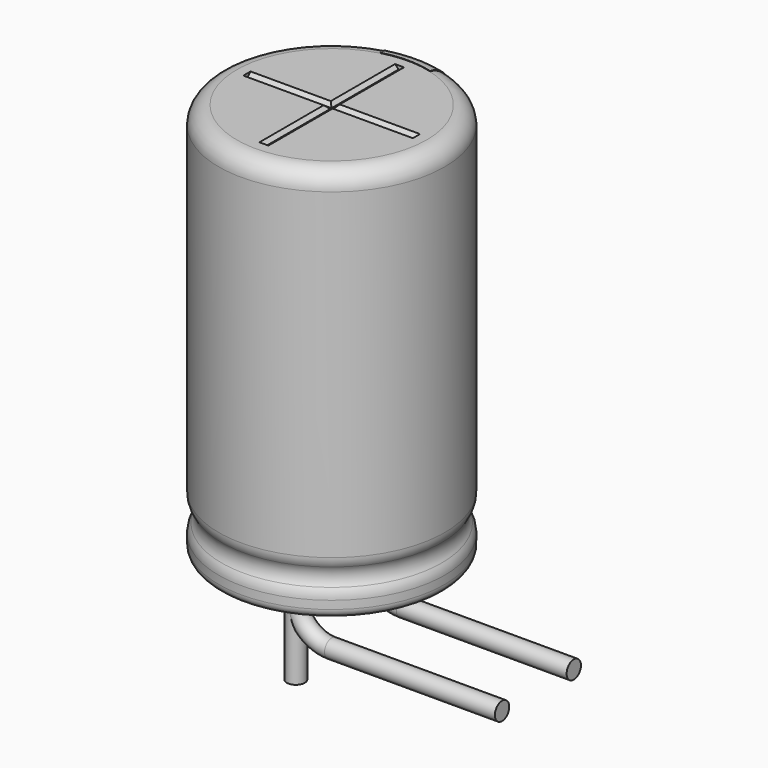
from build123d import *

# Parameters (mm, degrees)
SKETCH010_R         = 0.25
PAD002_DEPTH        = 2.6
REVOLUTION001_ANGLE = -30
SKETCH015_W         = 0.5
SKETCH015_H         = 1
POCKET002_DEPTH     = 3.161
LINEARPATTERN_COUNT = 3
LINEARPATTERN_PITCH = 4
SKETCH012_R         = 2.65
POCKET_DEPTH        = 0.5
SKETCH003_R         = 0.25
SKETCH013_R         = 2.65
PAD_DEPTH           = 0.5
POCKET001_DEPTH     = 2.3625
POLARPATTERN_COUNT  = 3
POLARPATTERN_ANGLE  = 180


with BuildPart() as obj1:
    # Sketch010 → Pad002 (new body)
    with BuildSketch(Plane(origin=(0, 1.25, 0), x_dir=(1, 0, 0), z_dir=(0, 0, 1))):
        Circle(SKETCH010_R)
    extrude(amount=-PAD002_DEPTH)


with BuildPart() as obj1_1:
    # Body007 placement: moved
    add(obj1.part.moved(Location((0, -2.5, 0))))


with BuildPart() as polaritymarking:
    # Sketch005 → Revolution001 (revolve)
    with BuildSketch(Plane(origin=(0, 0, 0), x_dir=(-0.258819, 0.965926, 0), z_dir=(0.965926, 0.258819, 0))):
        with BuildLine():
            Line((2.66, 0.25), (2.66, 11.01))
            ThreePointArc((2.66, 11.01), (3.013553, 10.863553), (3.16, 10.51))
            Line((3.16, 10.51), (3.16, 1.523941))
            ThreePointArc((3.16, 1.523941), (3.139134, 1.381006), (3.078278, 1.25))
            ThreePointArc((3.078278, 1.25), (3.003698, 1), (3.078278, 0.75))
            ThreePointArc((3.078278, 0.75), (3.139134, 0.618994), (3.16, 0.476059))
            Line((3.16, 0.476059), (3.16, 0.25))
            ThreePointArc((3.16, 0.25), (2.91, 0), (2.66, 0.25))
        make_face()
    revolve(axis=Axis((0, 0, 0), (0, 0, 1)), revolution_arc=REVOLUTION001_ANGLE)

    # Sketch015 → Pocket002 (cut, through all)
    with BuildSketch(Plane.XZ):
        with Locations((0, 2)):
            Rectangle(SKETCH015_W, SKETCH015_H)
    pocket002 = extrude(amount=-POCKET002_DEPTH, mode=Mode.SUBTRACT)

    # LinearPattern: Pocket002 ×3
    with Locations(*[(0, 0, i * LINEARPATTERN_PITCH) for i in range(1, LINEARPATTERN_COUNT)]):
        add(pocket002, mode=Mode.SUBTRACT)


with BuildPart() as housing:
    # Sketch → Revolution (revolve)
    with BuildSketch(Plane.XZ):
        with BuildLine():
            Line((0, 11), (2.65, 11))
            ThreePointArc((3.15, 10.5), (3.003553, 10.853553), (2.65, 11))
            Line((3.15, 10.5), (3.15, 1.523941))
            ThreePointArc((3.068278, 1.25), (3.129134, 1.381006), (3.15, 1.523941))
            ThreePointArc((3.068278, 1.25), (2.993698, 1), (3.068278, 0.75))
            ThreePointArc((3.15, 0.476059), (3.129134, 0.618994), (3.068278, 0.75))
            Line((3.15, 0.476059), (3.15, 0.25))
            ThreePointArc((2.9, 0), (3.076777, 0.073223), (3.15, 0.25))
            Line((0, 0), (2.9, 0))
            Line((0, 11), (0, 0))
        make_face()
    revolve(axis=Axis((0, 0, 0), (0, 0, 1)))

    # Sketch012 → Pocket (cut)
    with BuildSketch(Plane.XY.offset(11)):
        Circle(SKETCH012_R)
    extrude(amount=-POCKET_DEPTH, mode=Mode.SUBTRACT)


with BuildPart() as obj2:
    # AdditivePipe: sweep along a path in Sketch004
    with BuildLine(Plane.XZ) as additivepipe_path:
        Line((0, 0), (0, -0.5))
        ThreePointArc((0, -0.5), (0.292893, -1.207107), (1, -1.5))
        Line((1, -1.5), (5.75, -1.5))
    # Sketch003 (on ShapeBinder) → AdditivePipe (sweep)
    with BuildSketch(Plane(origin=(0, 0, 0), x_dir=(1, 0, 0), z_dir=(0, 0, -1))):
        with Locations((0, 1.25)):
            Circle(SKETCH003_R)
    sweep(path=additivepipe_path.line)


with BuildPart() as obj3:
    # Body003 base: copy of obj2
    add(obj2.part)


with BuildPart() as obj3_1:
    # Body003 placement: moved
    add(obj3.part.moved(Location((0, 2.5, 0))))


with BuildPart() as fusion:
    # Sketch013 (on ShapeBinder) → Pad (new body)
    with BuildSketch(Plane.XY.offset(10.5)):
        Circle(SKETCH013_R)
    extrude(amount=PAD_DEPTH)

    # Sketch014 → Pocket001 (cut, symmetric)
    with BuildSketch(Plane.XZ):
        Polygon((-0.125, 11), (0.125, 11), (0.025, 10.9), (-0.025, 10.9), align=None)
    pocket001 = extrude(amount=POCKET001_DEPTH, both=True, mode=Mode.SUBTRACT)

    # PolarPattern: Pocket001 ×3 about axis
    polarpattern_axis = Axis((0, 0, 0), (0, 0, 1))
    for i in range(1, POLARPATTERN_COUNT):
        add(pocket001.rotate(polarpattern_axis, i * POLARPATTERN_ANGLE / (POLARPATTERN_COUNT - 1)), mode=Mode.SUBTRACT)

    # Fusion: union PolarityMarking, Housing, obj3, obj2
    add(polaritymarking.part)
    add(housing.part)
    add(obj3_1.part)
    add(obj2.part)


solid = Compound([obj1_1.part, fusion.part])
